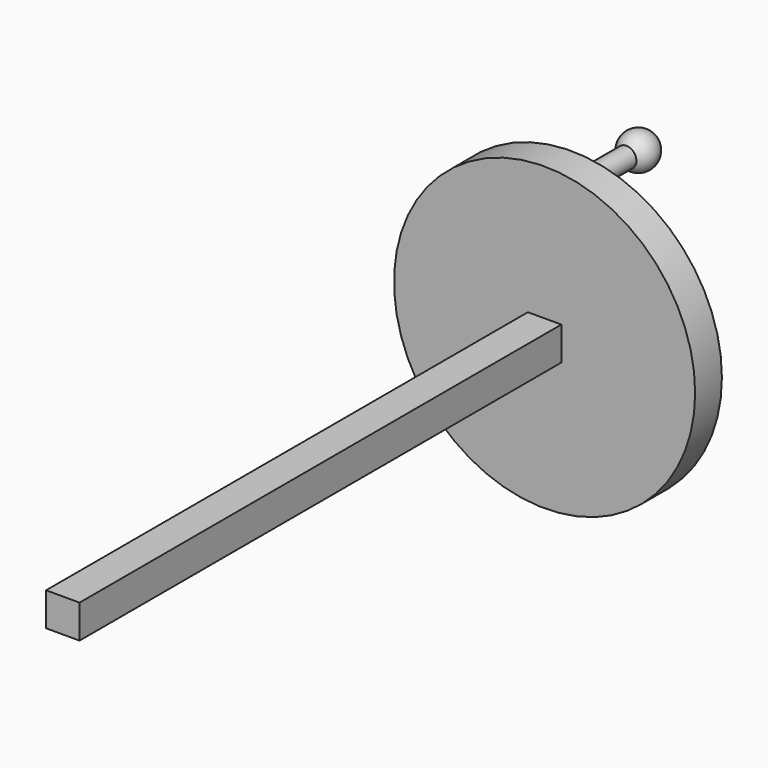
from build123d import *

# Parameters (mm, degrees)
F0_R     = 57.15
F1_DEPTH = 12.7
F2_W     = 12.7
F2_H     = 12.7
F3_DEPTH = 228.6
F4_R     = 12.7
F5_DEPTH = 38.1
F6_R     = 3.81
F7_DEPTH = 31.75


with BuildPart() as f1:
    # F0 (on Front) → F1 (new body)
    with BuildSketch(Plane.XZ):
        Circle(F0_R)
    extrude(amount=F1_DEPTH)

    # F2 (on face) → F3 (join)
    with BuildSketch(Plane.XZ.offset(12.7)):
        Rectangle(F2_W, F2_H)
    extrude(amount=F3_DEPTH)

    # F4 (on face) → F5 (join)
    with BuildSketch(Plane(origin=(0, 0, 0), x_dir=(-1, 0, 0), z_dir=(0, 1, 0))):
        Circle(F4_R)
    extrude(amount=F5_DEPTH)

    # F6 (on face) → F7 (join)
    with BuildSketch(Plane(origin=(0, 0, 0), x_dir=(-1, 0, 0), z_dir=(0, 1, 0))):
        with Locations((0, 44.45)):
            Circle(F6_R)
    extrude(amount=F7_DEPTH)

    # F8 (on face) → F9 (revolve)
    with BuildSketch(Plane(origin=(0, 31.75, 0), x_dir=(-1, 0, 0), z_dir=(0, 1, 0))):
        with BuildLine():
            ThreePointArc((-3.81, 44.45), (0, 48.26), (3.81, 44.45))
            Line((3.81, 44.45), (6.8118199706, 44.45))
            ThreePointArc((6.8118199706, 44.45), (0, 51.2618199706), (-6.8118199706, 44.45))
            Line((-6.8118199706, 44.45), (-3.81, 44.45))
        make_face()
        with BuildLine():
            Line((-3.81, 44.45), (3.81, 44.45))
            ThreePointArc((3.81, 44.45), (0, 48.26), (-3.81, 44.45))
        make_face()
    revolve(axis=Axis((15.5152343214, 31.75, 44.45), (1, 0, 0)))


solid = f1.part
